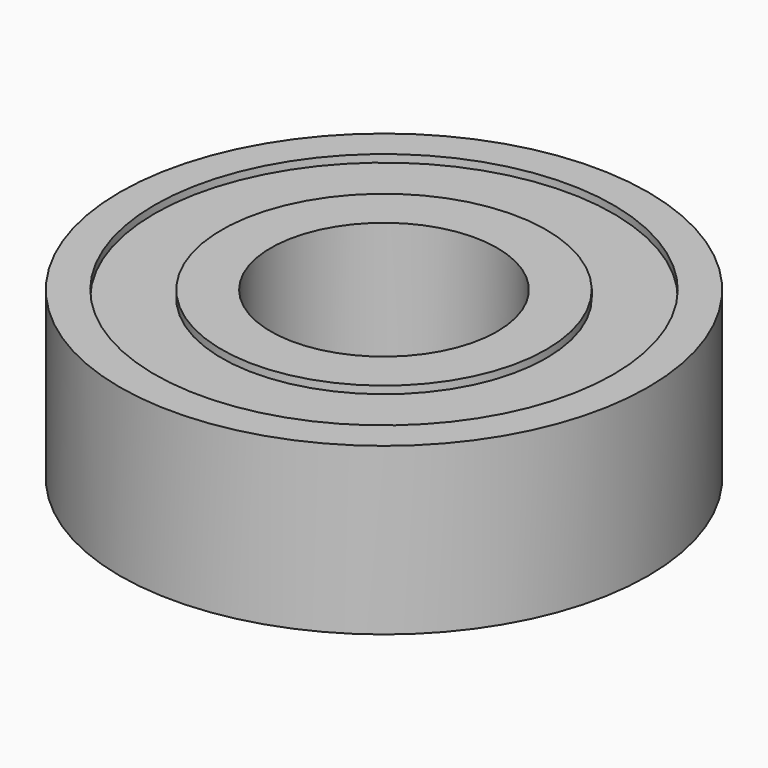
from build123d import *

# Parameters (mm, degrees)
F0_R     = 17.5
F1_DEPTH = 5.5
F2_R     = 7.5
F3_DEPTH = 25
F4_R     = 15.2
F4_R_2   = 10.75
F5_DEPTH = 0.5


with BuildPart() as f1:
    # F0 (on Top) → F1 (new body)
    with BuildSketch(Plane.XY):
        Circle(F0_R)
    extrude(amount=F1_DEPTH)

    # F2 (on face) → F3 (cut)
    with BuildSketch(Plane.XY.offset(5.5)):
        Circle(F2_R)
    extrude(amount=-F3_DEPTH, mode=Mode.SUBTRACT)

    # F4 (on face) → F5 (cut)
    with BuildSketch(Plane.XY.offset(5.5)):
        Circle(F4_R)
        Circle(F4_R_2, mode=Mode.SUBTRACT)
    extrude(amount=-F5_DEPTH, mode=Mode.SUBTRACT)

    # F6: F1 across plane


with BuildPart() as f1_1:
    add(f1.part)
    add(f1.part.mirror(Plane.XY))


solid = f1_1.part
